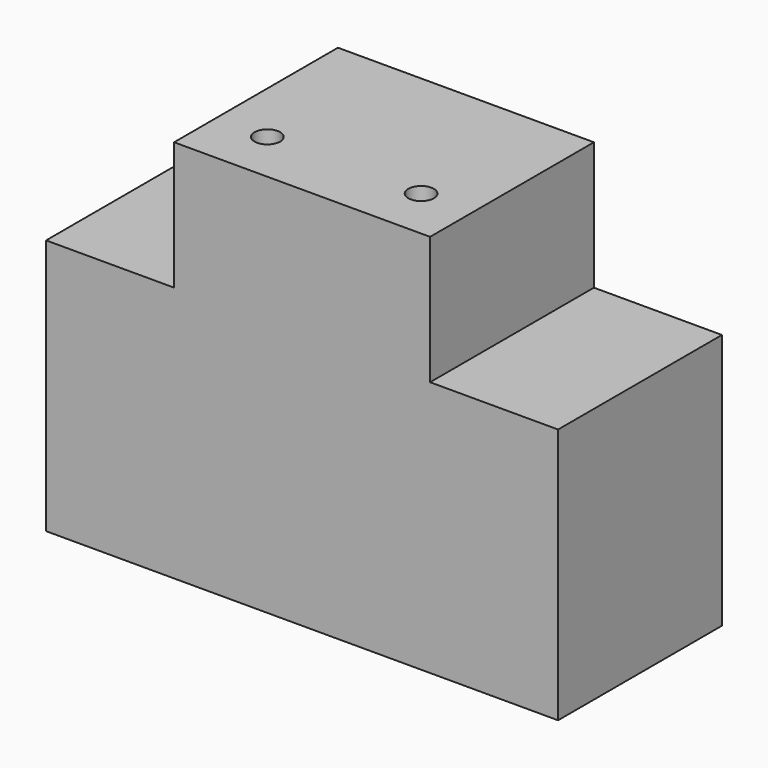
from build123d import *

# Parameters (mm, degrees)
F0_W     = 10
F0_H     = 5
F1_DEPTH = 1
F3_DEPTH = 7
F5_D     = 1
F5_DEPTH = 1


with BuildPart() as f1:
    # F0 (on Front) → F1 (new body)
    with BuildSketch(Plane.XZ):
        with Locations((49.226046, 17.170396)):
            Rectangle(F0_W, F0_H)
        Polygon((39.226046, 4.670396), (59.226046, 4.670396), (59.226046, 14.670396), (54.226046, 14.670396), (44.226046, 14.670396), (39.226046, 14.670396), align=None)
    extrude(amount=-F1_DEPTH)

    # F2 (on face) → F3 (join)
    with BuildSketch(Plane(origin=(0, 1, 0), x_dir=(-1, 0, 0), z_dir=(0, 1, 0))):
        Polygon((-59.226046, 14.670396), (-59.226046, 4.670396), (-39.226046, 4.670396), (-39.226046, 14.670396), (-44.226046, 14.670396), (-44.226046, 19.670396), (-54.226046, 19.670396), (-54.226046, 14.670396), align=None)
        Polygon((-58.226046, 5.670396), (-58.226046, 13.670396), (-53.226046, 13.670396), (-53.226046, 18.670396), (-45.226046, 18.670396), (-45.226046, 13.670396), (-40.226046, 13.670396), (-40.226046, 5.670396), align=None, mode=Mode.SUBTRACT)
    extrude(amount=F3_DEPTH)

    # F5
    with Locations(Plane.XY.offset(19.670396)):
        with Locations((46.226046, 2.054661), (52.226046, 2.061454)):
            Hole(F5_D / 2, depth=F5_DEPTH)


solid = f1.part
